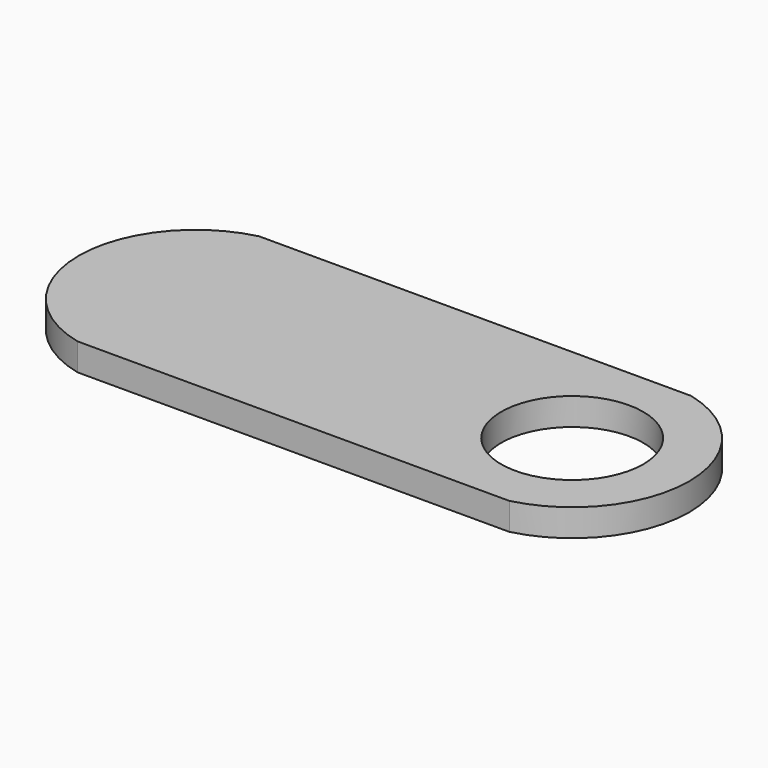
from build123d import *

# Parameters (mm, degrees)
F0_R     = 3.125
F1_DEPTH = 1.2


with BuildPart() as f1:
    # F0 (on Top) → F1 (new body)
    with BuildSketch(Plane.XY):
        with BuildLine():
            Line((-9.5, -5), (9.5, -5))
            ThreePointArc((9.5, -5), (13.418354, 0), (9.5, 5))
            Line((9.5, 5), (-9.5, 5))
            ThreePointArc((-9.5, 5), (-13.44077, 0), (-9.5, -5))
        make_face()
        with Locations((8.269062, 0)):
            Circle(F0_R, mode=Mode.SUBTRACT)
    extrude(amount=F1_DEPTH)


solid = f1.part
